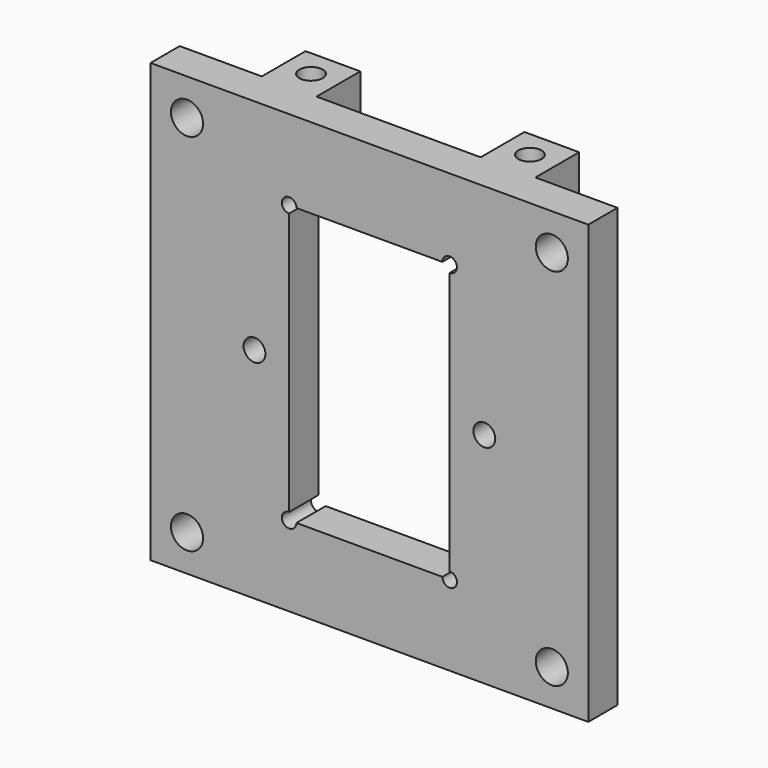
from build123d import *

# Parameters (mm, degrees)
F0_W     = 76.2
F0_H     = 76.2
F3_DEPTH = 6.35
F4_DEPTH = 6.351
F2_R     = 2.794
F5_DEPTH = 6.351
F6_W     = 9.525
F6_H     = 9.525
F6_R     = 2.032
F7_DEPTH = 12.7
F8_R     = 1.905
F9_DEPTH = 6.351


with BuildPart() as f3:
    # F0 (on Front) → F3 (new body)
    with BuildSketch(Plane.XZ):
        Rectangle(F0_W, F0_H)
    extrude(amount=F3_DEPTH)

    # F1 (on Front) → F4 (cut, through all)
    with BuildSketch(Plane.XZ):
        with BuildLine():
            Line((12.7, 24.13), (-12.7, 24.13))
            ThreePointArc((-12.7, 24.13), (-14.868026, 25.028026), (-13.97, 22.86))
            Line((-13.97, 22.86), (-13.97, -22.86))
            ThreePointArc((-13.97, -22.86), (-14.868026, -25.028026), (-12.7, -24.13))
            Line((-12.7, -24.13), (12.7, -24.13))
            ThreePointArc((12.7, -24.13), (14.868026, -25.028026), (13.97, -22.86))
            Line((13.97, -22.86), (13.97, 22.86))
            ThreePointArc((13.97, 22.86), (14.868026, 25.028026), (12.7, 24.13))
        make_face()
    extrude(amount=F4_DEPTH, mode=Mode.SUBTRACT)

    # F2 (on Front) → F5 (cut, through all)
    with BuildSketch(Plane.XZ):
        with Locations((-31.75, 31.75)):
            Circle(F2_R)
        with Locations((-31.75, -31.75)):
            Circle(F2_R)
        with Locations((31.75, -31.75)):
            Circle(F2_R)
        with Locations((31.75, 31.75)):
            Circle(F2_R)
    extrude(amount=F5_DEPTH, mode=Mode.SUBTRACT)

    # F6 (on face) → F7 (join)
    with BuildSketch(Plane.XY.offset(38.1)):
        with Locations((-19.05, 4.7625)):
            Rectangle(F6_W, F6_H)
        with Locations((-19.05, 4.7625)):
            Circle(F6_R, mode=Mode.SUBTRACT)
        with Locations((19.05, 4.7625)):
            Rectangle(F6_W, F6_H)
        with Locations((19.05, 4.7625)):
            Circle(F6_R, mode=Mode.SUBTRACT)
    extrude(amount=-F7_DEPTH)

    # F8 (on Front) → F9 (cut, through all)
    with BuildSketch(Plane.XZ):
        with Locations((-20.0025, 0)):
            Circle(F8_R)
        with Locations((20.0025, 0)):
            Circle(F8_R)
    extrude(amount=F9_DEPTH, mode=Mode.SUBTRACT)


solid = f3.part
